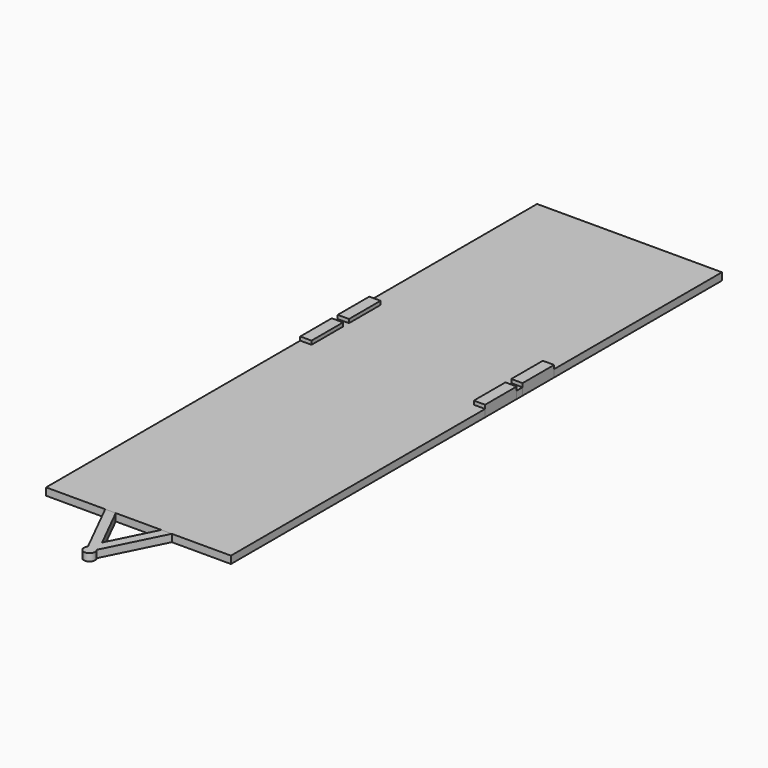
from build123d import *

# Parameters (mm, degrees)
F0_W     = 2500
F0_H     = 8300
F1_DEPTH = 100
F3_DEPTH = 100
F4_W     = 152.4
F4_H     = 533.4
F5_DEPTH = 150


with BuildPart() as f1:
    # F0 (on Top) → F1 (new body)
    with BuildSketch(Plane.XY):
        Rectangle(F0_W, F0_H)
    extrude(amount=F1_DEPTH)


with BuildPart() as f3:
    # F2 (on Top) → F3 (new body)
    with BuildSketch(Plane.XY):
        with BuildLine():
            Line((-308.0096834288, -4150), (-450, -4150))
            Line((-450, -4150), (-59.4087300624, -4931.1825398752))
            ThreePointArc((-59.4087300624, -4931.1825398752), (0, -4902.7009094238), (59.4087300624, -4931.1825398752))
            Line((59.4087300624, -4931.1825398752), (450, -4150))
            Line((450, -4150), (308.0096834288, -4150))
            Line((308.0096834288, -4150), (0, -4766.0193668575))
            Line((0, -4766.0193668575), (-308.0096834288, -4150))
        make_face()
        with BuildLine():
            ThreePointArc((59.4087300624, -4931.1825398752), (0, -4902.7009094238), (-59.4087300624, -4931.1825398752))
            Line((-59.4087300624, -4931.1825398752), (0, -5050))
            Line((0, -5050), (59.4087300624, -4931.1825398752))
        make_face()
        with BuildLine():
            Line((-308.0096834288, -4150), (-450, -4150))
            Line((-450, -4150), (-59.4087300624, -4931.1825398752))
            ThreePointArc((-59.4087300624, -4931.1825398752), (0, -4902.7009094238), (59.4087300624, -4931.1825398752))
            Line((59.4087300624, -4931.1825398752), (450, -4150))
            Line((450, -4150), (308.0096834288, -4150))
            Line((308.0096834288, -4150), (0, -4766.0193668575))
            Line((0, -4766.0193668575), (-308.0096834288, -4150))
        make_face()
        with BuildLine():
            ThreePointArc((59.4087300624, -4931.1825398752), (0, -4902.7009094238), (-59.4087300624, -4931.1825398752))
            Line((-59.4087300624, -4931.1825398752), (0, -5050))
            Line((0, -5050), (59.4087300624, -4931.1825398752))
        make_face()
        with BuildLine():
            Line((0, -5050), (-59.4087300624, -4931.1825398752))
            ThreePointArc((-59.4087300624, -4931.1825398752), (-25.2932280388, -5050.7806187678), (76.2, -4978.9009094238))
            ThreePointArc((76.2, -4978.9009094238), (71.879709344, -4953.607681385), (59.4087300624, -4931.1825398752))
            Line((59.4087300624, -4931.1825398752), (0, -5050))
        make_face()
        with BuildLine():
            Line((-308.0096834288, -4150), (-450, -4150))
            Line((-450, -4150), (-59.4087300624, -4931.1825398752))
            ThreePointArc((-59.4087300624, -4931.1825398752), (0, -4902.7009094238), (59.4087300624, -4931.1825398752))
            Line((59.4087300624, -4931.1825398752), (450, -4150))
            Line((450, -4150), (308.0096834288, -4150))
            Line((308.0096834288, -4150), (0, -4766.0193668575))
            Line((0, -4766.0193668575), (-308.0096834288, -4150))
        make_face()
        with BuildLine():
            Line((-308.0096834288, -4150), (-450, -4150))
            Line((-450, -4150), (-59.4087300624, -4931.1825398752))
            ThreePointArc((-59.4087300624, -4931.1825398752), (0, -4902.7009094238), (59.4087300624, -4931.1825398752))
            Line((59.4087300624, -4931.1825398752), (450, -4150))
            Line((450, -4150), (308.0096834288, -4150))
            Line((308.0096834288, -4150), (0, -4766.0193668575))
            Line((0, -4766.0193668575), (-308.0096834288, -4150))
        make_face()
    extrude(amount=F3_DEPTH)


with BuildPart() as f5:
    # F4 (on Top) → F5 (new body)
    with BuildSketch(Plane.XY):
        with Locations((-1173.8, 1046.7)):
            Rectangle(F4_W, F4_H)
    extrude(amount=F5_DEPTH)


with BuildPart() as f5b:
    # F4 (on Top) → F5, piece 2 (new body)
    with BuildSketch(Plane.XY):
        with Locations((-1173.8, 413.3)):
            Rectangle(F4_W, F4_H)
    extrude(amount=F5_DEPTH)


with BuildPart() as f5c:
    # F4 (on Top) → F5, piece 3 (new body)
    with BuildSketch(Plane.XY):
        with Locations((1173.8, 413.3)):
            Rectangle(F4_W, F4_H)
    extrude(amount=F5_DEPTH)


with BuildPart() as f5d:
    # F4 (on Top) → F5, piece 4 (new body)
    with BuildSketch(Plane.XY):
        with Locations((1173.8, 1046.7)):
            Rectangle(F4_W, F4_H)
    extrude(amount=F5_DEPTH)


solid = Compound([f1.part, f3.part, f5.part, f5b.part, f5c.part, f5d.part])
